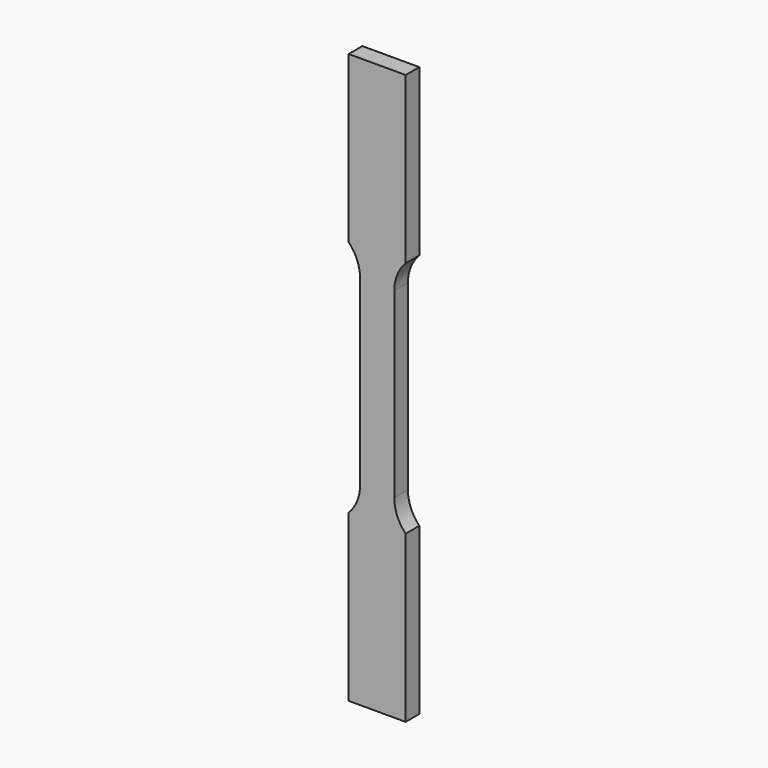
from build123d import *

# Parameters (mm, degrees)
F1_DEPTH = 3


with BuildPart() as f1:
    # F0 (on Front) → F1 (new body)
    with BuildSketch(Plane.XZ):
        with BuildLine():
            Line((3, -16), (3, 0))
            Line((3, 0), (3, 16))
            ThreePointArc((3, 16), (3.519259, 18.645751), (5, 20.898979))
            Line((5, 20.898979), (5, 50))
            Line((5, 50), (0, 50))
            Line((0, 50), (-5, 50))
            Line((-5, 50), (-5, 20.898979))
            ThreePointArc((-5, 20.898979), (-3.519259, 18.645751), (-3, 16))
            Line((-3, 16), (-3, 0))
            Line((-3, 0), (-3, -16))
            ThreePointArc((-3, -16), (-3.519259, -18.645751), (-5, -20.898979))
            Line((-5, -20.898979), (-5, -50))
            Line((-5, -50), (0, -50))
            Line((0, -50), (5, -50))
            Line((5, -50), (5, -20.898979))
            ThreePointArc((5, -20.898979), (3.519259, -18.645751), (3, -16))
        make_face()
    extrude(amount=F1_DEPTH)


solid = f1.part
